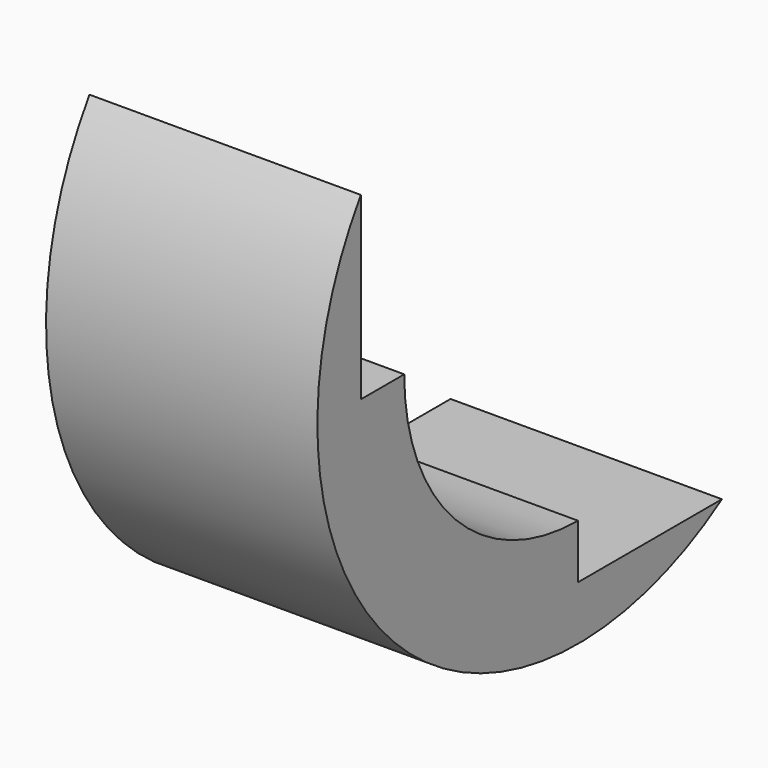
from build123d import *

# Parameters (mm, degrees)
BOX030_W      = 5
BOX030_H      = 10
BOX030_DEPTH  = 8
BOX029_W      = 5
BOX029_H      = 8
BOX029_DEPTH  = 10
TUBE012_R     = 6
TUBE012_R_2   = 4
TUBE012_DEPTH = 5


with BuildPart() as cube030:
    # Box030 → Box030 (new body)
    with BuildSketch(Plane(origin=(0, -2, 3), x_dir=(1, 0, 0), z_dir=(0, 0, 1))):
        with Locations((2.5, 5)):
            Rectangle(BOX030_W, BOX030_H)
    extrude(amount=BOX030_DEPTH)


with BuildPart() as cube029:
    # Box029 → Box029 (new body)
    with BuildSketch(Plane(origin=(0, 3, -2), x_dir=(1, 0, 0), z_dir=(0, 0, 1))):
        with Locations((2.5, 4)):
            Rectangle(BOX029_W, BOX029_H)
    extrude(amount=BOX029_DEPTH)


with BuildPart() as cut034:
    # Tube012 → Tube012 (new body)
    with BuildSketch(Plane(origin=(0, 3, 3), x_dir=(0, 0, -1), z_dir=(1, 0, 0))):
        Circle(TUBE012_R)
        Circle(TUBE012_R_2, mode=Mode.SUBTRACT)
    extrude(amount=TUBE012_DEPTH)

    # Cut033: cut Cube029
    add(cube029.part, mode=Mode.SUBTRACT)

    # Cut034: cut Cube030
    add(cube030.part, mode=Mode.SUBTRACT)


with BuildPart() as cut034_1:
    # Cut034 placement: moved
    add(cut034.part.moved(Location((0, 1, 1))))


solid = cut034_1.part
